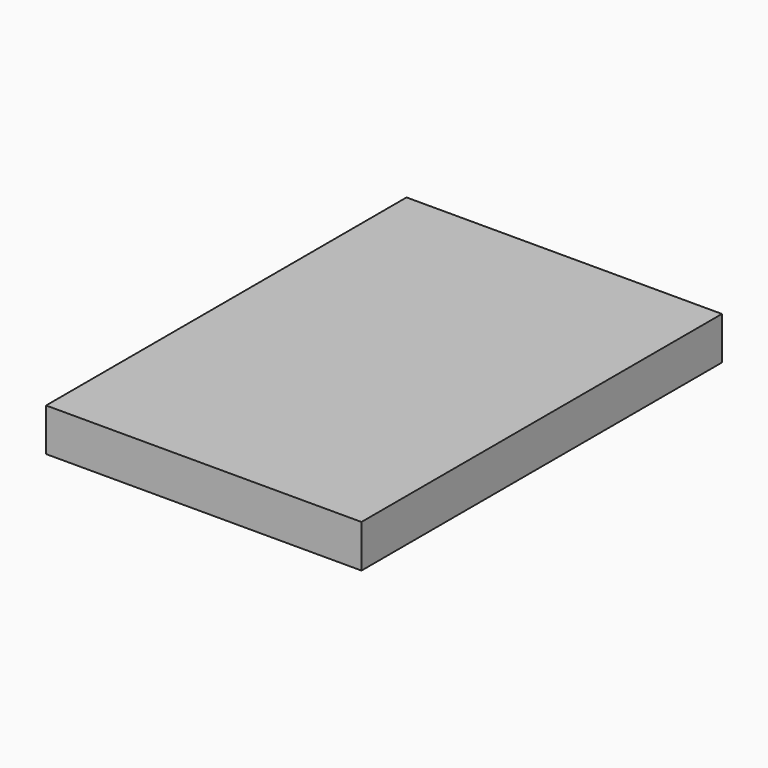
from build123d import *

# Parameters (mm, degrees)
F0_W     = 70
F0_H     = 100
F1_DEPTH = 9.5
F2_W     = 43.5
F2_H     = 7
F3_DEPTH = 10
F4_W     = 26.9
F4_H     = 4.6
F4_W_2   = 13
F5_DEPTH = 10


with BuildPart() as f1:
    # F0 (on Top) → F1 (new body)
    with BuildSketch(Plane.XY):
        Rectangle(F0_W, F0_H)
    extrude(amount=F1_DEPTH)

    # F2 (on face) → F3 (cut)
    with BuildSketch(Plane(origin=(0, 50, 0), x_dir=(-1, 0, 0), z_dir=(0, 1, 0))):
        with Locations((-4.75, 3.5)):
            Rectangle(F2_W, F2_H)
    extrude(amount=-F3_DEPTH, mode=Mode.SUBTRACT)

    # F4 (on face) → F5 (join)
    with BuildSketch(Plane(origin=(0, 40, 0), x_dir=(-1, 0, 0), z_dir=(0, 1, 0))):
        with Locations((-11.85, 3.5)):
            Rectangle(F4_W, F4_H)
        with Locations((9.3, 3.5)):
            Rectangle(F4_W_2, F4_H)
    extrude(amount=F5_DEPTH)


solid = f1.part
